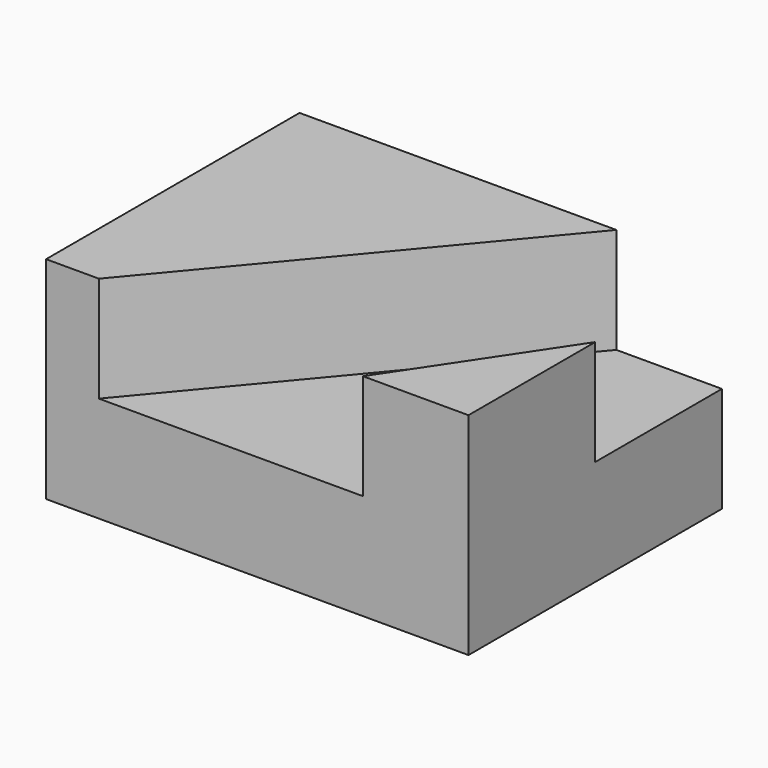
from build123d import *

# Parameters (mm, degrees)
F0_W     = 101.6
F0_H     = 25.4
F1_DEPTH = 76.2
F3_DEPTH = 25.4
F5_DEPTH = 25.4


with BuildPart() as f1:
    # F0 (on Front) → F1 (new body)
    with BuildSketch(Plane.XZ):
        with Locations((-4.908444, -38.063884)):
            Rectangle(F0_W, F0_H)
    extrude(amount=F1_DEPTH)

    # F2 (on face) → F3 (join)
    with BuildSketch(Plane.XY.offset(-25.363884)):
        Polygon((20.491556, -76.2), (45.891556, -76.2), (45.891556, -38.1), align=None)
    extrude(amount=F3_DEPTH)

    # F4 (on face) → F5 (join)
    with BuildSketch(Plane.XY.offset(-25.363884)):
        Polygon((-55.708444, 0), (-55.708444, -76.2), (-43.008444, -76.2), (20.491556, 0), align=None)
    extrude(amount=F5_DEPTH)


solid = f1.part
